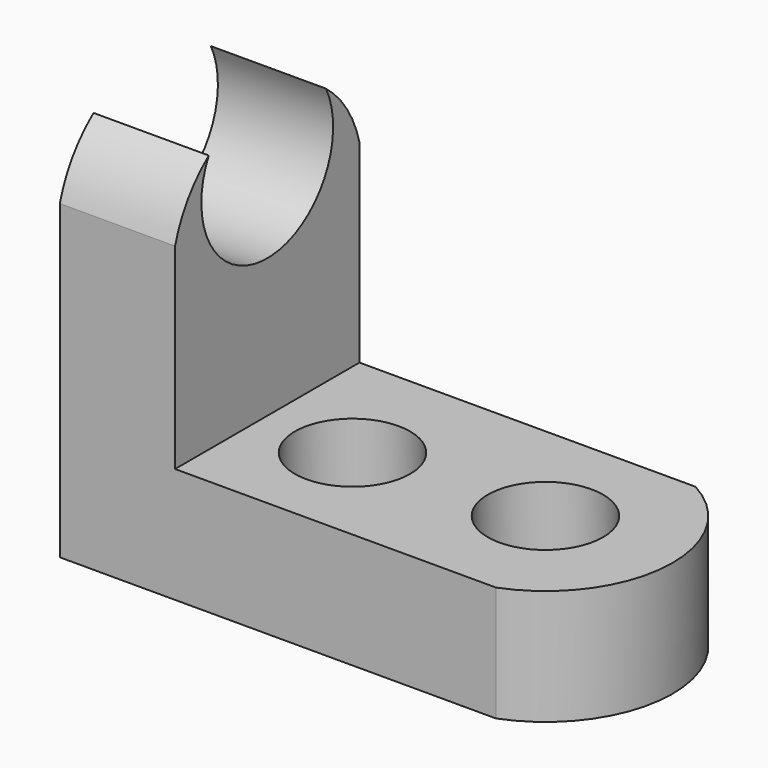
from build123d import *

# Parameters (mm, degrees)
F0_W      = 57.15
F0_H      = 44.45
F2_DEPTH  = 25.4
F3_W      = 44.45
F3_H      = 31.75
F4_DEPTH  = 25.4
F6_DEPTH  = 25.4
F8_DEPTH  = 25.4
F10_DEPTH = 25.4
F11_R     = 6.35
F12_DEPTH = 25.4


with BuildPart() as f2:
    # F0 (on Front) → F2 (new body)
    with BuildSketch(Plane.XZ):
        with Locations((28.575, 22.225)):
            Rectangle(F0_W, F0_H)
    extrude(amount=F2_DEPTH)

    # F3 (on face) → F4 (cut)
    with BuildSketch(Plane.XZ.offset(25.4)):
        with Locations((34.925, 28.575)):
            Rectangle(F3_W, F3_H)
    extrude(amount=-F4_DEPTH, mode=Mode.SUBTRACT)

    # F5 (on face) → F6 (cut)
    with BuildSketch(Plane(origin=(0, 0, 0), x_dir=(0, -1, 0), z_dir=(-1, 0, 0))):
        with BuildLine():
            ThreePointArc((0, 34.065149012), (12.5994370477, 43.9648535962), (25.4, 34.3266196875))
            Line((25.4, 34.3266196875), (25.4, 44.45))
            Line((25.4, 44.45), (0, 44.45))
            Line((0, 44.45), (0, 34.065149012))
        make_face()
    extrude(amount=-F6_DEPTH, mode=Mode.SUBTRACT)

    # F7 (on face) → F8 (cut)
    with BuildSketch(Plane(origin=(0, 0, 0), x_dir=(0, -1, 0), z_dir=(-1, 0, 0))):
        with BuildLine():
            ThreePointArc((20.7597522167, 41.230371503), (12.6668838252, 43.9653747873), (4.6026757381, 41.1469870045))
            ThreePointArc((4.6026757381, 41.1469870045), (12.7494064505, 27.9752999749), (20.7597522167, 41.230371503))
        make_face()
    extrude(amount=-F8_DEPTH, mode=Mode.SUBTRACT)

    # F9 (on face) → F10 (cut)
    with BuildSketch(Plane.XY.offset(12.7)):
        with BuildLine():
            ThreePointArc((49.7347712517, 0), (57.0352782302, -13.2327718435), (48.0707809329, -25.4))
            Line((48.0707809329, -25.4), (57.15, -25.4))
            Line((57.15, -25.4), (57.15, 0))
            Line((57.15, 0), (49.7347712517, 0))
        make_face()
    extrude(amount=-F10_DEPTH, mode=Mode.SUBTRACT)

    # F11 (on face) → F12 (cut)
    with BuildSketch(Plane.XY.offset(12.7)):
        with Locations((22.7237032021, -13.4871597779)):
            Circle(F11_R)
        with Locations((43.0526448926, -12.3167495402)):
            Circle(F11_R)
    extrude(amount=-F12_DEPTH, mode=Mode.SUBTRACT)


solid = f2.part
